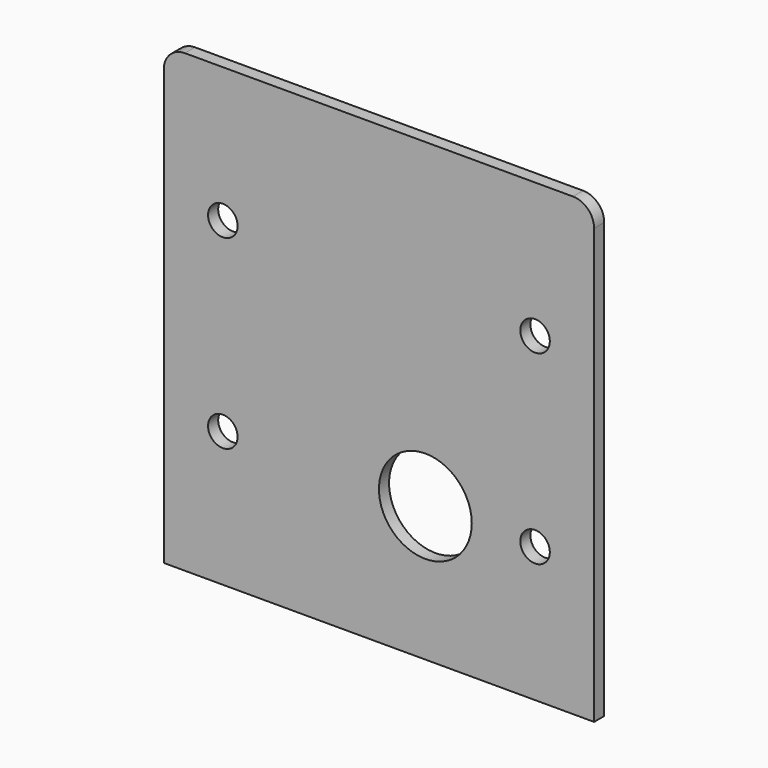
from build123d import *

# Parameters (mm, degrees)
F0_W     = 102
F0_H     = 108
F0_R     = 3.5
F0_R_2   = 11
F1_DEPTH = 3
F2_R     = 5


with BuildPart() as f1:
    # F0 (on Front) → F1 (new body)
    with BuildSketch(Plane.XZ):
        with Locations((-1.222222, 2.444444)):
            Rectangle(F0_W, F0_H)
        with Locations((-38.222222, -19.555556)):
            Circle(F0_R, mode=Mode.SUBTRACT)
        with Locations((9.777778, -19.555556)):
            Circle(F0_R_2, mode=Mode.SUBTRACT)
        with Locations((35.777778, -19.555556)):
            Circle(F0_R, mode=Mode.SUBTRACT)
        with Locations((-38.222222, 24.444444)):
            Circle(F0_R, mode=Mode.SUBTRACT)
        with Locations((35.777778, 24.444444)):
            Circle(F0_R, mode=Mode.SUBTRACT)
    extrude(amount=F1_DEPTH)

    # F2
    f2_edges = [f1.edges().sort_by_distance(p)[0] for p in [
        (49.777778, -1.5, 56.444444),
        (-52.222222, -1.5, 56.444444),
    ]]
    fillet(f2_edges, radius=F2_R)


solid = f1.part
